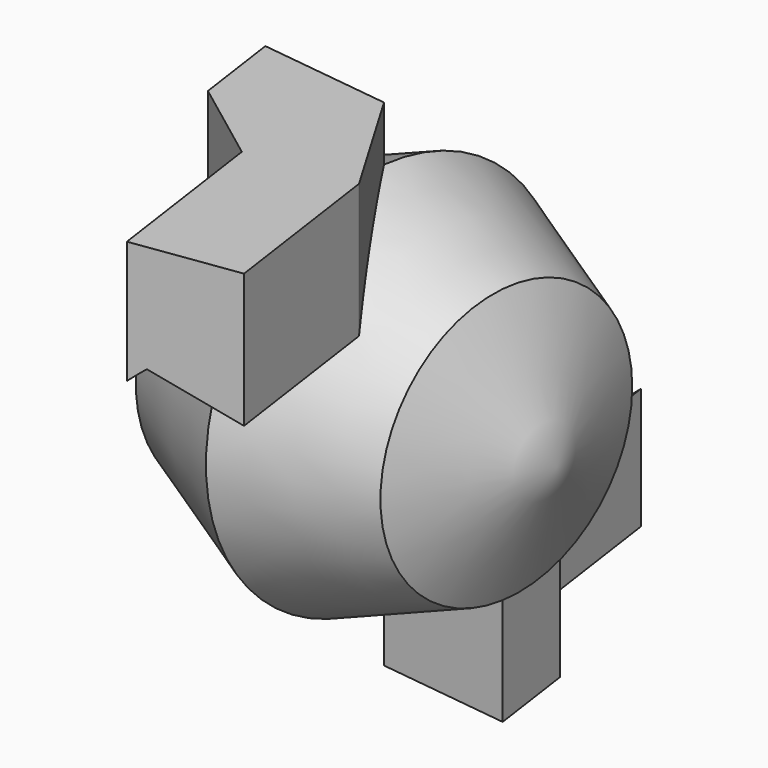
from build123d import *

# Parameters (mm, degrees)
F3_DEPTH = 70.4
F4_DEPTH = 70
F5_DEPTH = 50
F6_DEPTH = 50


with BuildPart() as f2:
    # F0 (on Top) → F2 (revolve)
    with BuildSketch(Plane.XY):
        Polygon((-33.6825172336, 43.3684236657), (-54.4832428067, 6.84897012), (54.4832428067, -6.84897012), (43.3684236657, 33.6825172336), (6.84897012, 54.4832428067), align=None)
    revolve(axis=Axis((0, 0, 0), (-0.9921911987, 0.1247262006, 0)))

    # F1 (on face) → F3 (join)
    with BuildSketch(Plane.XY):
        Polygon((-9.7933541443, -38.0940927736), (20.0116441973, -33.8615384493), (0, 0), (-37.3704768033, 4.6977614733), (-33.8615384493, -20.0116441973), align=None)
    extrude(amount=F3_DEPTH)

    # F1 (on face) → F4 (join)
    with BuildSketch(Plane.XY):
        Polygon((0, 0), (37.3704768033, -4.6977614733), (33.8615384493, 20.0116441973), (9.7933541443, 38.0940927736), (-20.0116441973, 33.8615384493), align=None)
    extrude(amount=-F4_DEPTH)

    # F5 (add): a face of the model
    f5_faces = [f2.faces().sort_by_distance(p)[0] for p in [
        (5.5808426548, -35.9108306778, 53.3725872313),
    ]]
    extrude(f5_faces, amount=F5_DEPTH)

    # F6 (add): a face of the model
    f6_faces = [f2.faces().sort_by_distance(p)[0] for p in [
        (-5.5864714155, 35.9100313476, -53.1717859656),
    ]]
    extrude(f6_faces, amount=F6_DEPTH)


solid = f2.part
